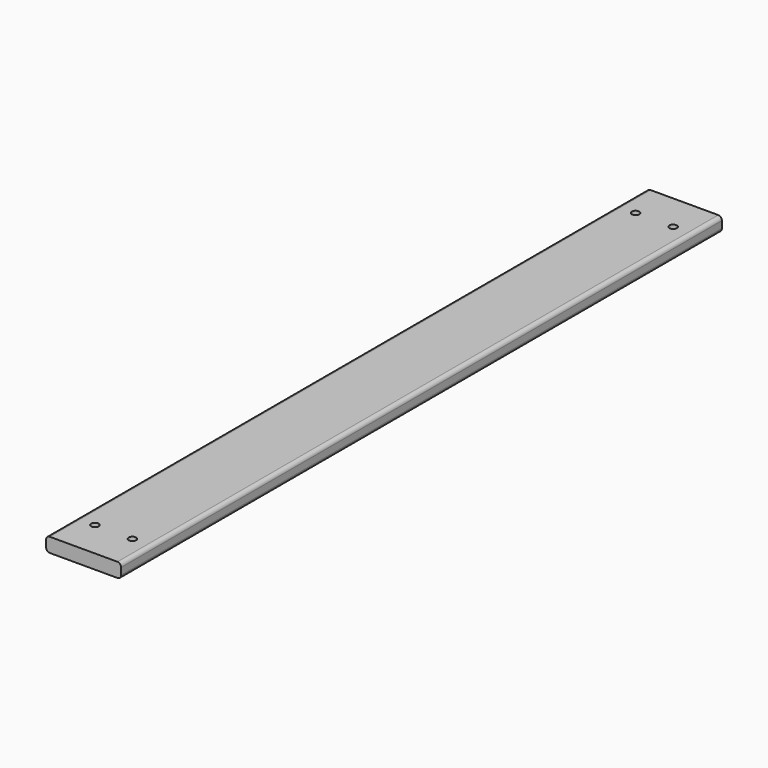
from build123d import *

# Parameters (mm, degrees)
F0_W     = 10
F0_H     = 1.9
F1_DEPTH = 50
F3_D     = 1
F4_R     = 0.5


with BuildPart() as f1:
    # F0 (on Front) → F1 (new body, symmetric)
    with BuildSketch(Plane.XZ):
        Rectangle(F0_W, F0_H)
    extrude(amount=F1_DEPTH, both=True)

    # F3 (through all)
    with Locations(Plane.XY.offset(0.95)):
        with Locations((-2.5, 45), (2.5, 45), (-2.5, -45), (2.5, -45)):
            Hole(F3_D / 2)

    # F4
    f4_edges = [f1.edges().sort_by_distance(p)[0] for p in [
        (5, 0, 0.95),
        (-5, 0, 0.95),
        (5, 0, -0.95),
        (-5, 0, -0.95),
    ]]
    fillet(f4_edges, radius=F4_R)


solid = f1.part
